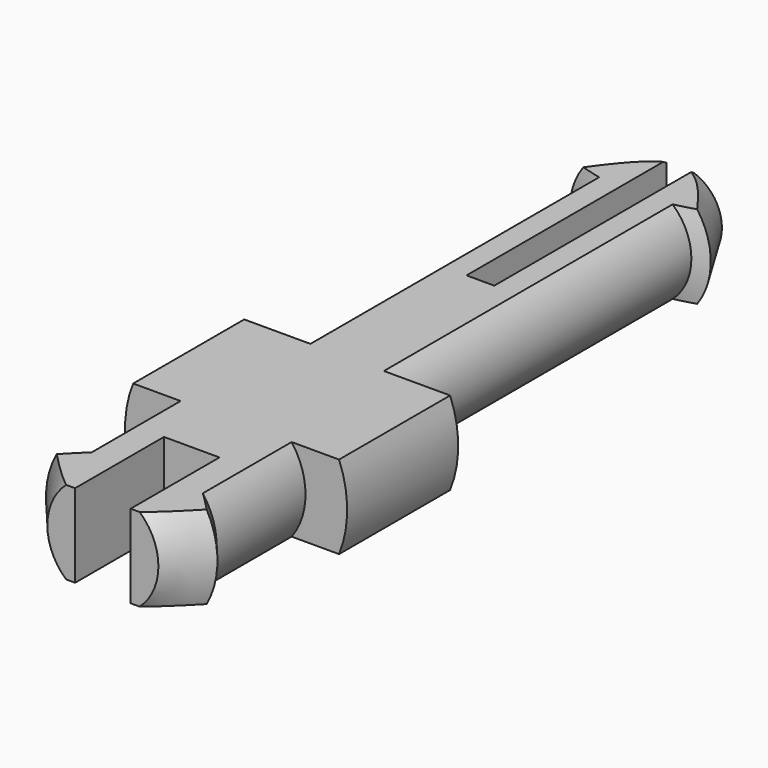
from build123d import *

# Parameters (mm, degrees)
F15_R     = 2.5
F0_DEPTH  = 4
F3_W      = 2
F3_H      = 7
F4_DEPTH  = 3.5
F5_R      = 4
F6_DEPTH  = 5
F7_R      = 2
F8_DEPTH  = 13
F11_W     = 1
F11_H     = 11
F12_DEPTH = 12.5
F13_W     = 11
F13_H     = 5
F14_DEPTH = 25


with BuildPart() as f0:
    # F15 (on Front) → F0 (new body)
    with BuildSketch(Plane.XZ):
        Circle(F15_R)
    extrude(amount=F0_DEPTH)

    # F1 (on Right) → F2 (revolve)
    with BuildSketch(Plane.YZ):
        Polygon((-6, 0), (-4, 0), (-4, 2.5), (-4.702062, 3.0891), (-6, 2), align=None)
    revolve(axis=Axis((0, -8.987078, 0), (0, -1, 0)))

    # F3 (on Top) → F4 (cut, symmetric)
    with BuildSketch(Plane.XY):
        with Locations((0, -5.5)):
            Rectangle(F3_W, F3_H)
    extrude(amount=F4_DEPTH, both=True, mode=Mode.SUBTRACT)

    # F5 (on face) → F6 (join)
    with BuildSketch(Plane.XZ):
        Circle(F5_R)
    extrude(amount=-F6_DEPTH)

    # F7 (on face) → F8 (join)
    with BuildSketch(Plane(origin=(0, 5, 0), x_dir=(-1, 0, 0), z_dir=(0, 1, 0))):
        Circle(F7_R)
    extrude(amount=F8_DEPTH)

    # F9 (on Right) → F10 (revolve)
    with BuildSketch(Plane.YZ):
        Polygon((18, 2), (18, 0), (20, 0), (20, 1.5), (18.196913, 2.541013), align=None)
    revolve(axis=Axis((0, 19, 0), (0, 1, 0)))

    # F11 (on Top) → F12 (cut, symmetric)
    with BuildSketch(Plane.XY):
        with Locations((0, 16.5)):
            Rectangle(F11_W, F11_H)
    extrude(amount=F12_DEPTH, both=True, mode=Mode.SUBTRACT)

    # F13 (on Front) → F14 (cut, symmetric)
    with BuildSketch(Plane.XZ):
        with Locations((0, 4)):
            Rectangle(F13_W, F13_H)
        with Locations((0, -4)):
            Rectangle(F13_W, F13_H)
    extrude(amount=F14_DEPTH, both=True, mode=Mode.SUBTRACT)


solid = f0.part
